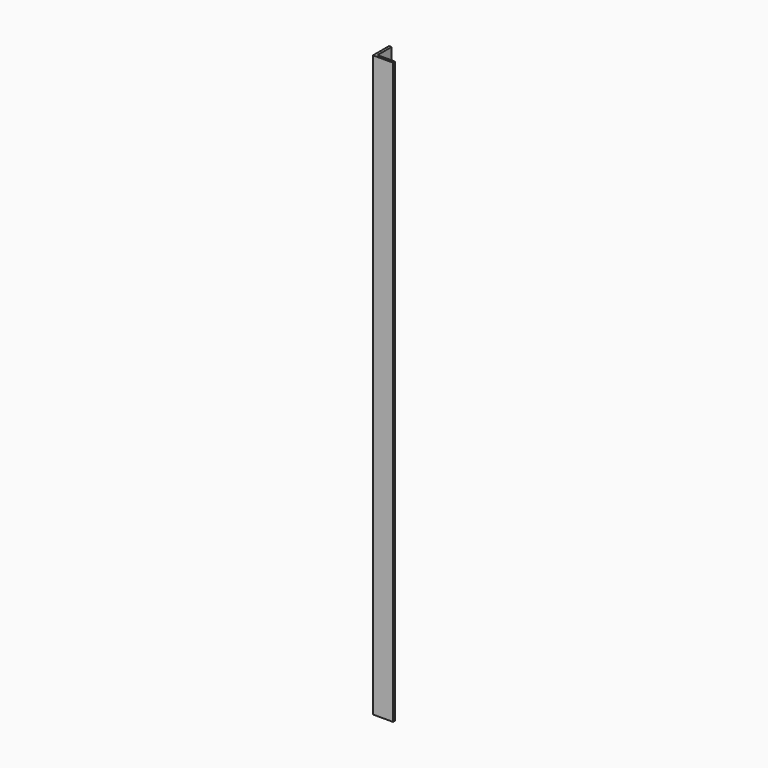
from build123d import *

# Parameters (mm, degrees)
F1_DEPTH = 730.25
F2_DEPTH = 6.35


with BuildPart() as f1:
    # F0 (on Top) → F1 (new body)
    with BuildSketch(Plane.XY):
        Polygon((-290.32869, 56.021555), (-290.32869, 30.621555), (-264.92869, 30.621555), (-264.92869, 33.796555), (-287.15369, 33.796555), (-287.15369, 56.021555), align=None)
    extrude(amount=-F1_DEPTH)

    # F1_face (on face) → F2 (join)
    with BuildSketch(Plane(origin=(-282.814523, 38.135722, 0), x_dir=(1, 0, 0), z_dir=(0, 0, 1))):
        Polygon((-7.514167, 17.885833), (-7.514167, -7.514167), (17.885833, -7.514167), (17.885833, -4.339167), (-4.339167, -4.339167), (-4.339167, 17.885833), align=None)
    extrude(amount=F2_DEPTH)


solid = f1.part
